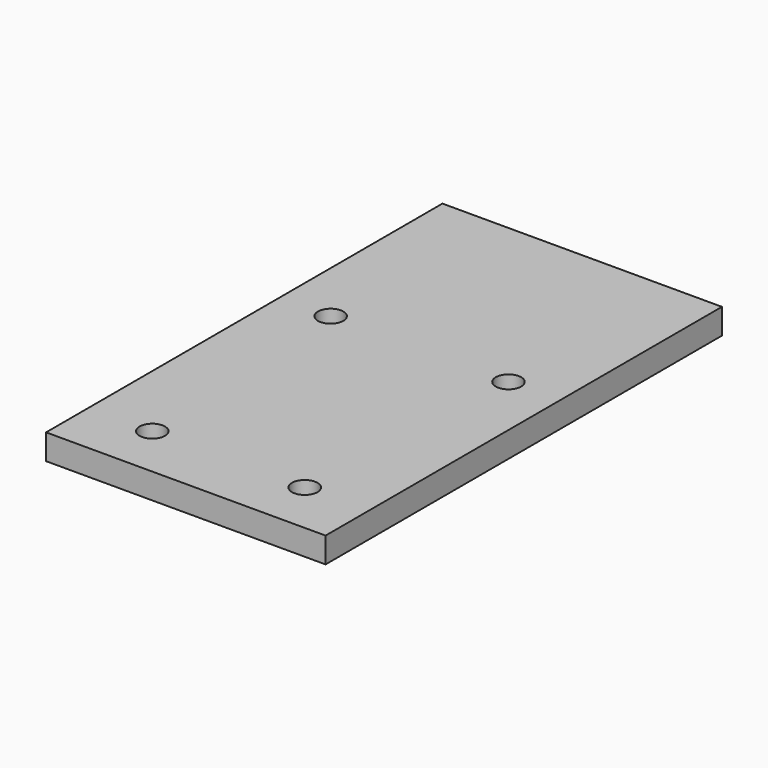
from build123d import *

# Parameters (mm, degrees)
SKETCH_W  = 55
SKETCH_H  = 97.5
SKETCH_R  = 2.5
PAD_DEPTH = 5


with BuildPart() as part:
    # Sketch → Pad (new body)
    with BuildSketch(Plane.XY):
        with Locations((-2.5, 73.75)):
            Rectangle(SKETCH_W, SKETCH_H)
        with Locations((12.5, 35.5)):
            Circle(SKETCH_R, mode=Mode.SUBTRACT)
        with Locations((-17.5, 35.5)):
            Circle(SKETCH_R, mode=Mode.SUBTRACT)
        with Locations((-20, 82.5)):
            Circle(SKETCH_R, mode=Mode.SUBTRACT)
        with Locations((15, 82.5)):
            Circle(SKETCH_R, mode=Mode.SUBTRACT)
    extrude(amount=PAD_DEPTH)


solid = part.part
